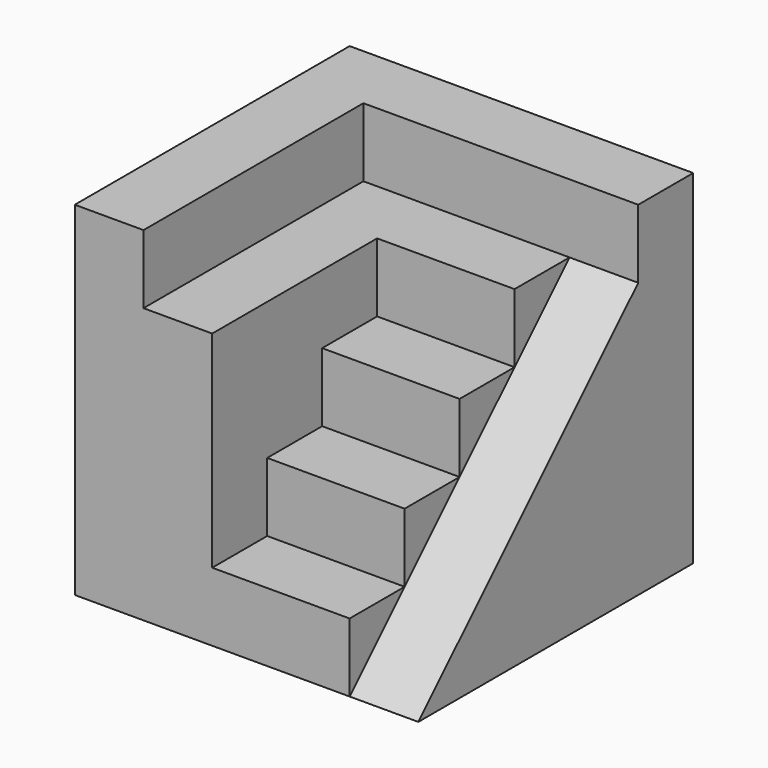
from build123d import *

# Parameters (mm, degrees)
F1_DEPTH = 32
F3_DEPTH = 25
F4_DEPTH = 40
F5_DEPTH = 32
F0_W     = 16
F0_H     = 8
F6_DEPTH = 16
F7_DEPTH = 8
F8_DEPTH = 24


with BuildPart() as f1:
    # F0 (on Top) → F1 (new body)
    with BuildSketch(Plane.XY):
        Polygon((20, -20), (20, 12), (12, 12), (12, 4), (12, -4), (12, -12), (12, -20), align=None)
    extrude(amount=F1_DEPTH)

    # F2 (on face) → F3 (cut)
    with BuildSketch(Plane.YZ.offset(20)):
        Polygon((-20, 0), (12, 32), (-20, 32), align=None)
    extrude(amount=-F3_DEPTH, mode=Mode.SUBTRACT)

    # F0 (on Top) → F4 (join)
    with BuildSketch(Plane.XY):
        Polygon((-12, 20), (-20, 20), (-20, -20), (-12, -20), (-12, 12), (12, 12), (20, 12), (20, 20), align=None)
    extrude(amount=F4_DEPTH)

    # F0 (on Top) → F5 (join)
    with BuildSketch(Plane.XY):
        Polygon((-12, 12), (-12, -20), (-4, -20), (-4, -12), (-4, -4), (-4, 4), (12, 4), (12, 12), align=None)
    extrude(amount=F5_DEPTH)

    # F0 (on Top) → F6 (join)
    with BuildSketch(Plane.XY):
        with Locations((4, -8)):
            Rectangle(F0_W, F0_H)
    extrude(amount=F6_DEPTH)

    # F0 (on Top) → F7 (join)
    with BuildSketch(Plane.XY):
        with Locations((4, -16)):
            Rectangle(F0_W, F0_H)
    extrude(amount=F7_DEPTH)

    # F0 (on Top) → F8 (join)
    with BuildSketch(Plane.XY):
        with Locations((4, 0)):
            Rectangle(F0_W, F0_H)
    extrude(amount=F8_DEPTH)


solid = f1.part
